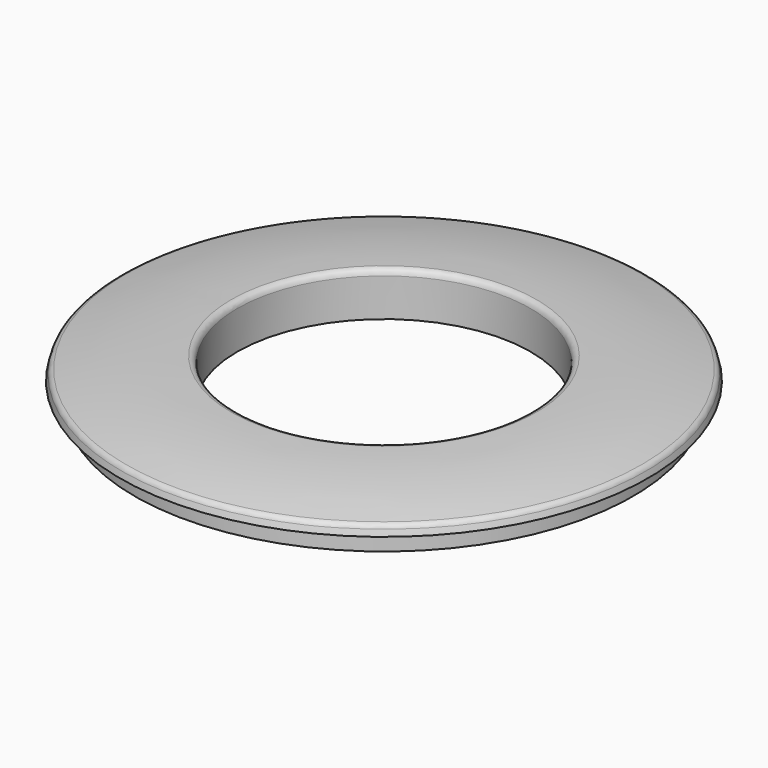
from build123d import *

# Parameters (mm, degrees)
F2_R = 1.27
F0_W = 17.4625
F0_H = 3.175


with BuildPart() as f1:
    # F0 (on Front) → F1 (revolve)
    with BuildSketch(Plane.XZ):
        with BuildLine():
            Line((-31.75, -4.7625), (-31.75, 4.7625))
            ThreePointArc((-31.75, 4.7625), (-44.252528, 4.077828), (-56.605527, 2.032))
            Line((-56.605527, 2.032), (-57.15, 0))
            Line((-57.15, 0), (-36.5125, 0))
            Line((-36.5125, 0), (-36.5125, -1.27))
            Line((-36.5125, -1.27), (-36.5125, -4.445))
            Line((-36.5125, -4.445), (-36.5125, -4.7625))
            Line((-36.5125, -4.7625), (-31.75, -4.7625))
        make_face()
    revolve(axis=Axis((0, 0, -1.44377), (0, 0, -1)))

    # F2
    f2_edges = [f1.edges().sort_by_distance(p)[0] for p in [
        (56.605527, 0, 2.032),
        (31.75, 0, 4.7625),
    ]]
    fillet(f2_edges, radius=F2_R)


with BuildPart() as f3:
    # F0 (on Front) → F3 (revolve)
    with BuildSketch(Plane.XZ):
        with Locations((-45.24375, -2.8575)):
            Rectangle(F0_W, F0_H)
    revolve(axis=Axis((0, 0, -1.44377), (0, 0, -1)))


solid = Compound([f1.part, f3.part])
